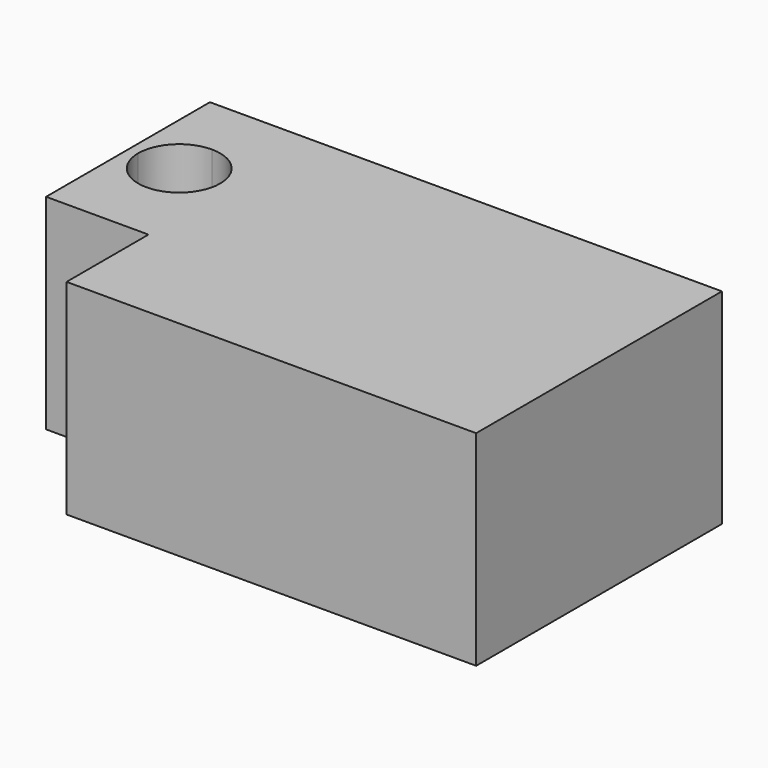
from build123d import *

# Parameters (mm, degrees)
F0_W     = 50.8
F0_H     = 12.7
F1_DEPTH = 12.7
F2_DEPTH = 12.7


with BuildPart() as f1:
    # F0 (on Top) → F1 (new body, symmetric)
    with BuildSketch(Plane.XY):
        Rectangle(F0_W, F0_H)
    extrude(amount=F1_DEPTH, both=True)

    # F0 (on Top) → F2 (join, symmetric)
    with BuildSketch(Plane.XY):
        Polygon((-25.4, 6.35), (25.4, 6.35), (25.4, 31.75), (-25.4, 31.75), (-25.4, 19.05), align=None)
        with BuildLine():
            Line((-26.67, 19.05), (-25.4, 19.05))
            Line((-25.4, 19.05), (-25.4, 31.75))
            Line((-25.4, 31.75), (-31.75, 31.75))
            Line((-31.75, 31.75), (-31.75, 24.13))
            ThreePointArc((-31.75, 24.13), (-28.157898, 22.642102), (-26.67, 19.05))
        make_face()
        with BuildLine():
            Line((-31.75, 24.13), (-31.75, 31.75))
            Line((-31.75, 31.75), (-38.1, 31.75))
            Line((-38.1, 31.75), (-38.1, 19.05))
            Line((-38.1, 19.05), (-36.83, 19.05))
            ThreePointArc((-36.83, 19.05), (-35.342102, 22.642102), (-31.75, 24.13))
        make_face()
        with BuildLine():
            Line((-38.1, 6.35), (-31.75, 6.35))
            Line((-31.75, 6.35), (-31.75, 13.97))
            ThreePointArc((-31.75, 13.97), (-35.342102, 15.457898), (-36.83, 19.05))
            Line((-36.83, 19.05), (-38.1, 19.05))
            Line((-38.1, 19.05), (-38.1, 6.35))
        make_face()
        with BuildLine():
            Line((-31.75, 6.35), (-25.4, 6.35))
            Line((-25.4, 6.35), (-25.4, 19.05))
            Line((-25.4, 19.05), (-26.67, 19.05))
            ThreePointArc((-26.67, 19.05), (-28.157898, 15.457898), (-31.75, 13.97))
            Line((-31.75, 13.97), (-31.75, 6.35))
        make_face()
    extrude(amount=F2_DEPTH, both=True)


solid = f1.part
